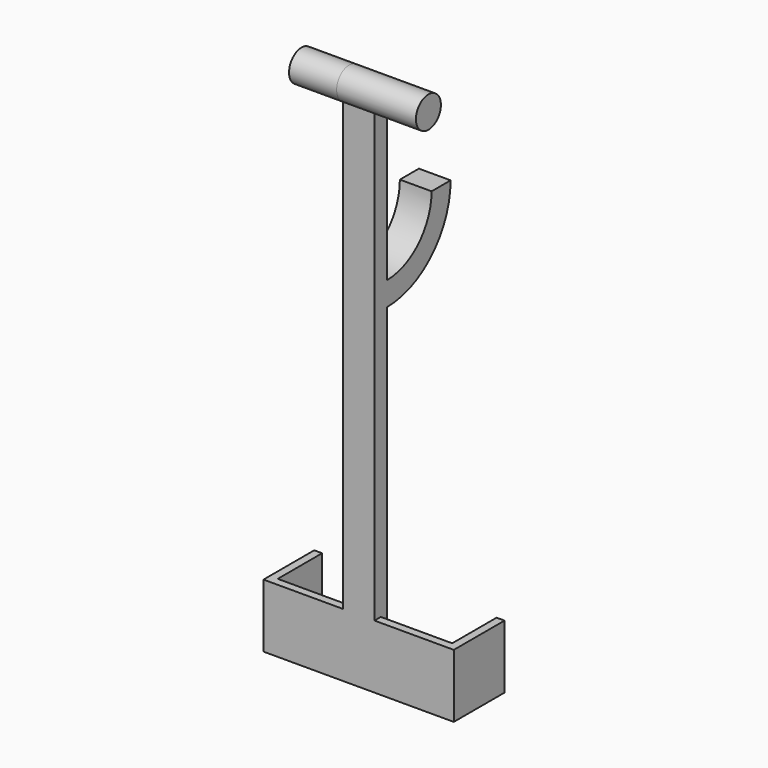
from build123d import *

# Parameters (mm, degrees)
F1_DEPTH = 25.4
F2_DEPTH = 101.6
F3_DEPTH = 838.2
F5_DEPTH = 50.8
F6_DEPTH = 76.2
F7_DEPTH = 127


with BuildPart() as f1:
    # F0 (on Top) → F1 (new body)
    with BuildSketch(Plane.XY):
        Polygon((-139.7, 12.7), (-25.4, 12.7), (-25.4, 25.4), (25.4, 25.4), (25.4, 12.7), (139.7, 12.7), (139.7, 101.6), (-139.7, 101.6), align=None)
    extrude(amount=F1_DEPTH)

    # F0 (on Top) → F2 (join)
    with BuildSketch(Plane.XY):
        Polygon((-152.4, 0), (-25.4, 0), (-25.4, 12.7), (-139.7, 12.7), (-139.7, 101.6), (-152.4, 101.6), align=None)
        Polygon((25.4, 12.7), (25.4, 0), (152.4, 0), (152.4, 101.6), (139.7, 101.6), (139.7, 12.7), align=None)
    extrude(amount=F2_DEPTH)

    # F0 (on Top) → F3 (join)
    with BuildSketch(Plane.XY):
        Polygon((-25.4, 0), (0, 0), (25.4, 0), (25.4, 12.7), (25.4, 25.4), (-25.4, 25.4), (-25.4, 12.7), align=None)
    extrude(amount=F3_DEPTH)

    # F4 (on face) → F5 (join)
    with BuildSketch(Plane(origin=(-25.4, 0, 0), x_dir=(0, -1, 0), z_dir=(-1, 0, 0))):
        with BuildLine():
            Line((-25.4, 533.4), (-25.4, 571.5))
            ThreePointArc((-25.4, 571.5), (-88.2617928475, 597.5382071525), (-114.3, 660.4))
            Line((-114.3, 660.4), (-152.4, 660.4))
            ThreePointArc((-152.4, 660.4), (-115.2025612107, 570.5974387893), (-25.4, 533.4))
        make_face()
    extrude(amount=-F5_DEPTH)



with BuildPart() as f6:
    # F4 (on face) → F6 (new body)
    with BuildSketch(Plane(origin=(-25.4, 0, 0), x_dir=(0, -1, 0), z_dir=(-1, 0, 0))):
        with BuildLine():
            ThreePointArc((0, 816.6661313275), (9.0082572424, 825.8004408344), (12.29995, 838.2))
            ThreePointArc((12.29995, 838.2), (-25.0995591656, 859.9082572424), (-25.4, 816.6661313275))
            Line((-25.4, 816.6661313275), (-25.4, 838.2))
            Line((-25.4, 838.2), (0, 838.2))
            Line((0, 838.2), (0, 816.6661313275))
        make_face()
        with BuildLine():
            Line((-25.4, 838.2), (-25.4, 816.6661313275))
            ThreePointArc((-25.4, 816.6661313275), (-12.7, 813.20005), (0, 816.6661313275))
            Line((0, 816.6661313275), (0, 838.2))
            Line((0, 838.2), (-25.4, 838.2))
        make_face()
    extrude(amount=F6_DEPTH)


with BuildPart() as f1_1:
    add(f1.part)
    # F7 (add): a face of the model
    f7_faces = [f6.part.faces().sort_by_distance(p)[0] for p in [
        (-25.4, 12.7, 838.2),
    ]]

    add(f6.part)  # F7 merges F6
    extrude(f7_faces, amount=F7_DEPTH)


solid = f1_1.part
